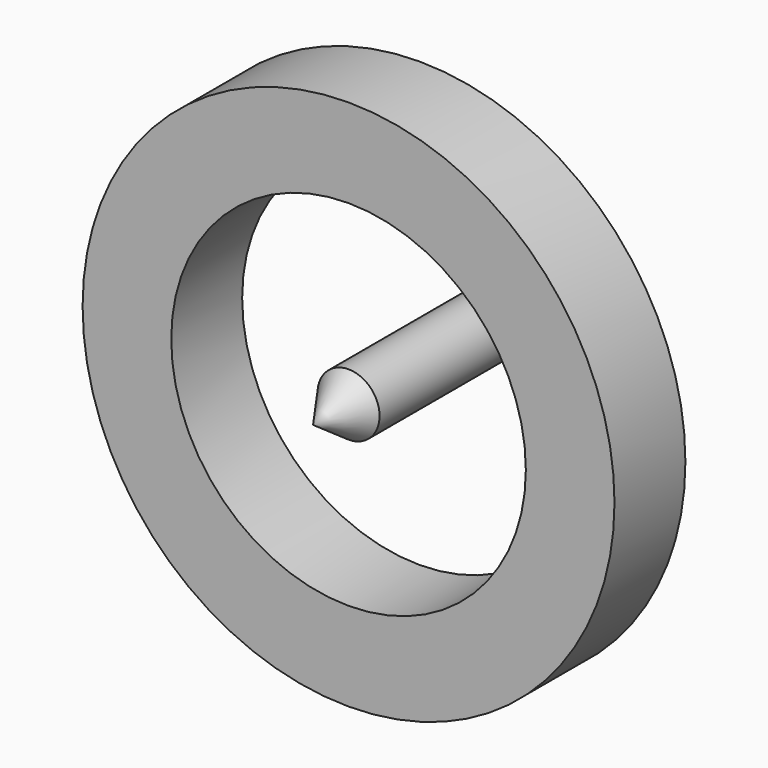
from build123d import *

# Parameters (mm, degrees)
F0_W     = 12.7
F0_H     = 12.7
F2_R     = 4.445
F3_DEPTH = 38.1


with BuildPart() as f1:
    # F0 (on Top) → F1 (revolve)
    with BuildSketch(Plane.XY):
        with Locations((31.75, 6.35)):
            Rectangle(F0_W, F0_H)
    revolve(axis=Axis((0, 27.467201, 0), (0, 1, 0)))


with BuildPart() as f3:
    # F2 (on Front) → F3 (new body)
    with BuildSketch(Plane.XZ):
        Circle(F2_R)
    extrude(amount=-F3_DEPTH)

    # F4 (on Right) → F5 (revolve)
    with BuildSketch(Plane.YZ):
        Polygon((-6.35, 0), (0, 0), (0, 4.445), align=None)
    revolve(axis=Axis((0, -21.669375, 0), (0, -1, 0)))


solid = Compound([f1.part, f3.part])
